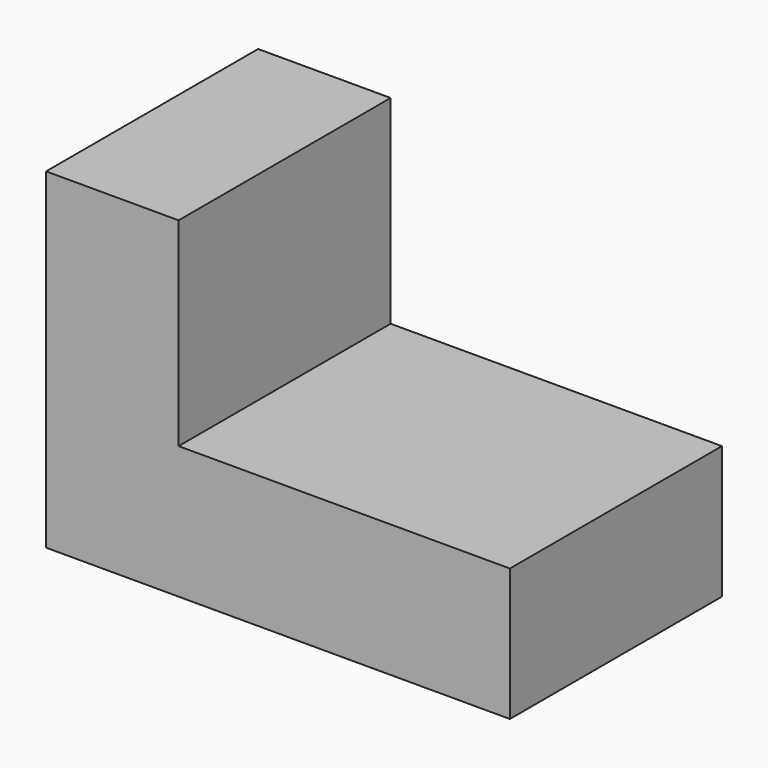
from build123d import *

# Parameters (mm, degrees)
F1_DEPTH = 25.4
F2_W     = 6.35
F2_H     = 19.05
F3_DEPTH = 25.4


with BuildPart() as f1:
    # F0 (on Front) → F1 (new body)
    with BuildSketch(Plane.XZ):
        Polygon((0, 31.75), (0, 0), (44.45, 0), (44.45, 12.7), (12.7, 12.7), (12.7, 31.75), align=None)
    extrude(amount=F1_DEPTH)

    # F2 (on face) → F3 (cut)
    with BuildSketch(Plane.YZ.offset(44.45)):
        with Locations((-13.046602, 22.225)):
            Rectangle(F2_W, F2_H)
    extrude(amount=-F3_DEPTH, mode=Mode.SUBTRACT)


solid = f1.part
